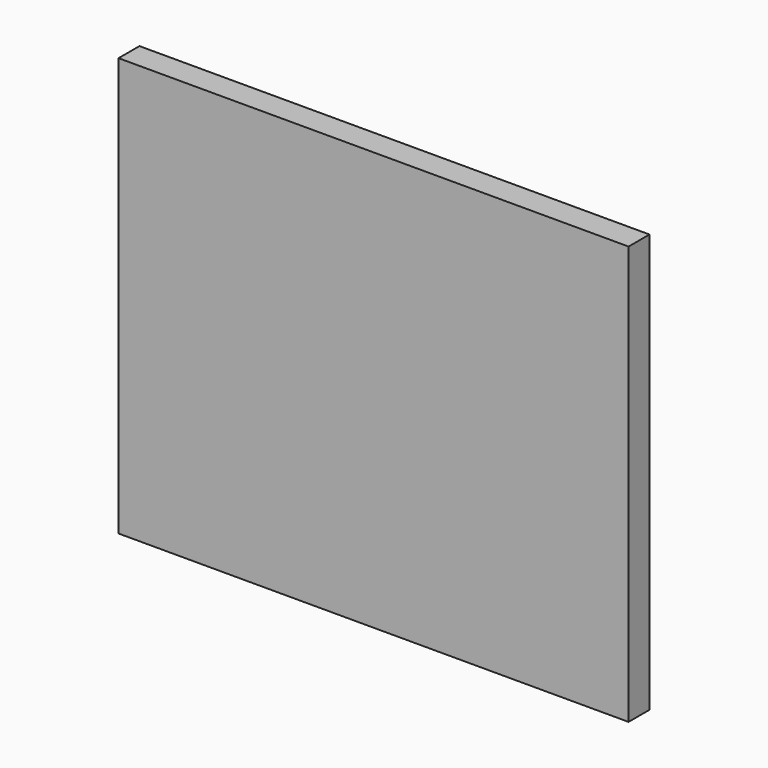
from build123d import *

# Parameters (mm, degrees)
F0_W     = 1016
F0_H     = 50.8
F1_DEPTH = 812.8
F2_DEPTH = 12.7
F3_DEPTH = 12.7


with BuildPart() as f1:
    # F0 (on Top) → F1 (new body)
    with BuildSketch(Plane.XY):
        with Locations((-560.3347482085, -6.4642370403)):
            Rectangle(F0_W, F0_H)
    extrude(amount=F1_DEPTH)

    # F2 (cut): a face of the model
    f2_faces = [f1.faces().sort_by_distance(p)[0] for p in [
        (-52.3347482085, -6.4642370403, 406.4),
    ]]
    extrude(f2_faces, amount=-F2_DEPTH, mode=Mode.SUBTRACT)

    # F3 (cut): a face of the model
    f3_faces = [f1.faces().sort_by_distance(p)[0] for p in [
        (-65.0347482085, -6.4642370403, 406.4),
    ]]
    extrude(f3_faces, amount=-F3_DEPTH, mode=Mode.SUBTRACT)


solid = f1.part
